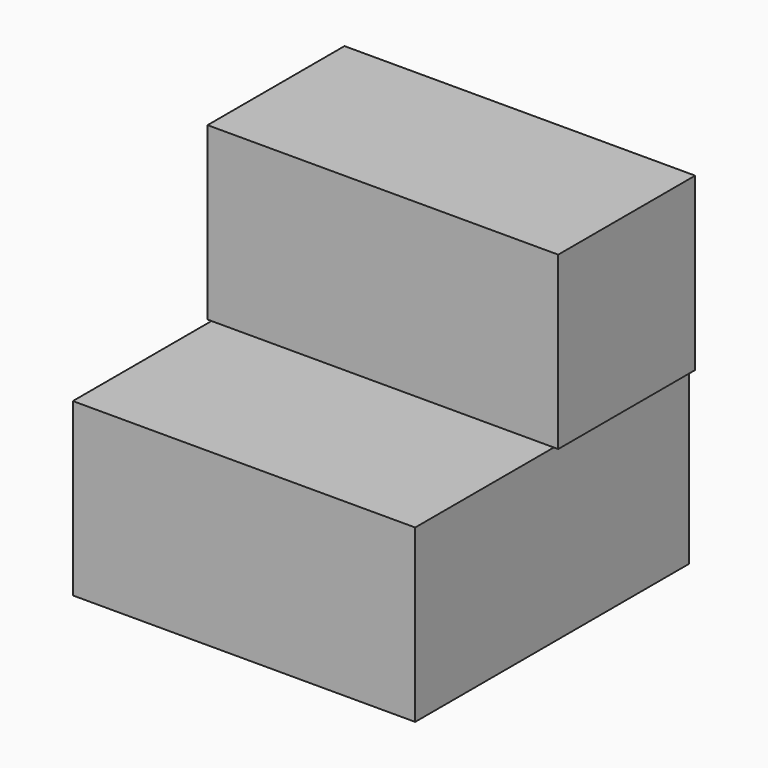
from build123d import *

# Parameters (mm, degrees)
F0_W     = 100
F0_H     = 100
F1_DEPTH = 50
F2_W     = 102.432432
F2_H     = 50
F3_DEPTH = 50


with BuildPart() as f1:
    # F0 (on Top) → F1 (new body)
    with BuildSketch(Plane.XY):
        with Locations((4.56433, -14.662177)):
            Rectangle(F0_W, F0_H)
    extrude(amount=-F1_DEPTH)

    # F2 (on Top) → F3 (join)
    with BuildSketch(Plane.XY):
        with Locations((4.624579, 10.966863)):
            Rectangle(F2_W, F2_H)
    extrude(amount=F3_DEPTH)


solid = f1.part
